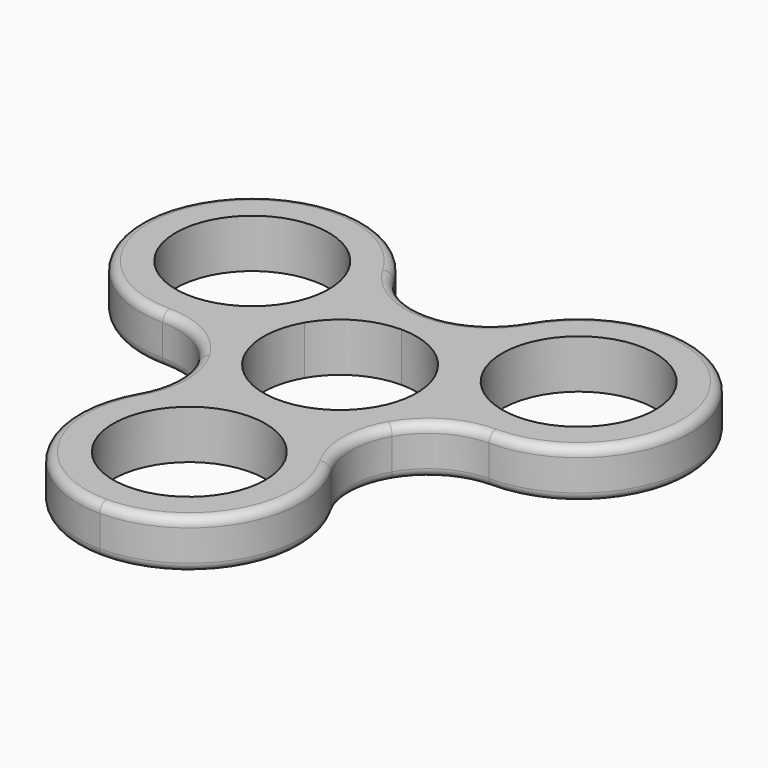
from build123d import *

# Parameters (mm, degrees)
F0_R     = 10.9363137741
F1_DEPTH = 7.00024
F2_R     = 1.27


with BuildPart() as f1:
    # F0 (on Top) → F1 (new body)
    with BuildSketch(Plane.XY):
        with BuildLine():
            ThreePointArc((0, 10.99058), (5.49529, 9.5181214823), (9.5181214823, 5.49529))
            Line((9.5181214823, 5.49529), (13.9175305336, 8.03529))
            ThreePointArc((13.9175305336, 8.03529), (17.9403620159, 23.0487014823), (32.9537734982, 19.02587))
            Line((32.9537734982, 19.02587), (37.3531825494, 21.56587))
            ThreePointArc((37.3531825494, 21.56587), (23.4356520159, 29.60116), (9.5181214823, 21.56587))
            ThreePointArc((9.5181214823, 21.56587), (5.49529, 17.5430385177), (0, 16.07058))
            Line((0, 16.07058), (0, 10.99058))
        make_face()
        with BuildLine():
            Line((13.9175305336, 8.03529), (9.5181214823, 5.49529))
            ThreePointArc((9.5181214823, 5.49529), (10.99058, 0), (9.5181214823, -5.49529))
            Line((9.5181214823, -5.49529), (13.9175305336, -8.03529))
            ThreePointArc((13.9175305336, -8.03529), (17.9403620159, -4.0124585177), (23.4356520159, -2.54))
            ThreePointArc((23.4356520159, -2.54), (37.3531825494, 5.49529), (37.3531825494, 21.56587))
            Line((37.3531825494, 21.56587), (32.9537734982, 19.02587))
            ThreePointArc((32.9537734982, 19.02587), (28.9309420159, 4.0124585177), (13.9175305336, 8.03529))
        make_face()
        with BuildLine():
            Line((13.9175305336, -8.03529), (9.5181214823, -5.49529))
            ThreePointArc((9.5181214823, -5.49529), (0, -10.99058), (-9.5181214823, -5.49529))
            Line((-9.5181214823, -5.49529), (-13.9175305336, -8.03529))
            ThreePointArc((-13.9175305336, -8.03529), (-12.4450720159, -13.53058), (-13.9175305336, -19.02587))
            ThreePointArc((-13.9175305336, -19.02587), (-13.9175305336, -35.09645), (0, -43.13174))
            ThreePointArc((0, -43.13174), (13.9175305336, -35.09645), (13.9175305336, -19.02587))
            ThreePointArc((13.9175305336, -19.02587), (12.4450720159, -13.53058), (13.9175305336, -8.03529))
        make_face()
        with Locations((0, -27.06116)):
            Circle(F0_R, mode=Mode.SUBTRACT)
        with BuildLine():
            ThreePointArc((-9.5181214823, 5.49529), (-5.49529, 9.5181214823), (0, 10.99058))
            Line((0, 10.99058), (0, 16.07058))
            ThreePointArc((0, 16.07058), (-5.49529, 17.5430385177), (-9.5181214823, 21.56587))
            ThreePointArc((-9.5181214823, 21.56587), (-23.4356520159, 29.60116), (-37.3531825494, 21.56587))
            Line((-37.3531825494, 21.56587), (-32.9537734982, 19.02587))
            ThreePointArc((-32.9537734982, 19.02587), (-17.9403620159, 23.0487014823), (-13.9175305336, 8.03529))
            Line((-13.9175305336, 8.03529), (-9.5181214823, 5.49529))
        make_face()
        with BuildLine():
            Line((-13.9175305336, -8.03529), (-9.5181214823, -5.49529))
            ThreePointArc((-9.5181214823, -5.49529), (-10.99058, 0), (-9.5181214823, 5.49529))
            Line((-9.5181214823, 5.49529), (-13.9175305336, 8.03529))
            ThreePointArc((-13.9175305336, 8.03529), (-28.9309420159, 4.0124585177), (-32.9537734982, 19.02587))
            Line((-32.9537734982, 19.02587), (-37.3531825494, 21.56587))
            ThreePointArc((-37.3531825494, 21.56587), (-37.3531825494, 5.49529), (-23.4356520159, -2.54))
            ThreePointArc((-23.4356520159, -2.54), (-17.9403620159, -4.0124585177), (-13.9175305336, -8.03529))
        make_face()
    extrude(amount=F1_DEPTH)

    # F2
    f2_edges = [f1.edges().sort_by_distance(p)[0] for p in [
        (13.917531, -8.03529, 7.00024),
        (0, -43.13174, 7.00024),
        (-13.917531, -8.03529, 7.00024),
        (-37.353183, 21.56587, 7.00024),
        (0, 16.07058, 7.00024),
        (37.353183, 21.56587, 7.00024),
        (37.353183, 21.56587, 0),
        (13.917531, -8.03529, 0),
        (0, -43.13174, 0),
        (-13.917531, -8.03529, 0),
        (-37.353183, 21.56587, 0),
        (0, 16.07058, 0),
    ]]
    fillet(f2_edges, radius=F2_R)


solid = f1.part
